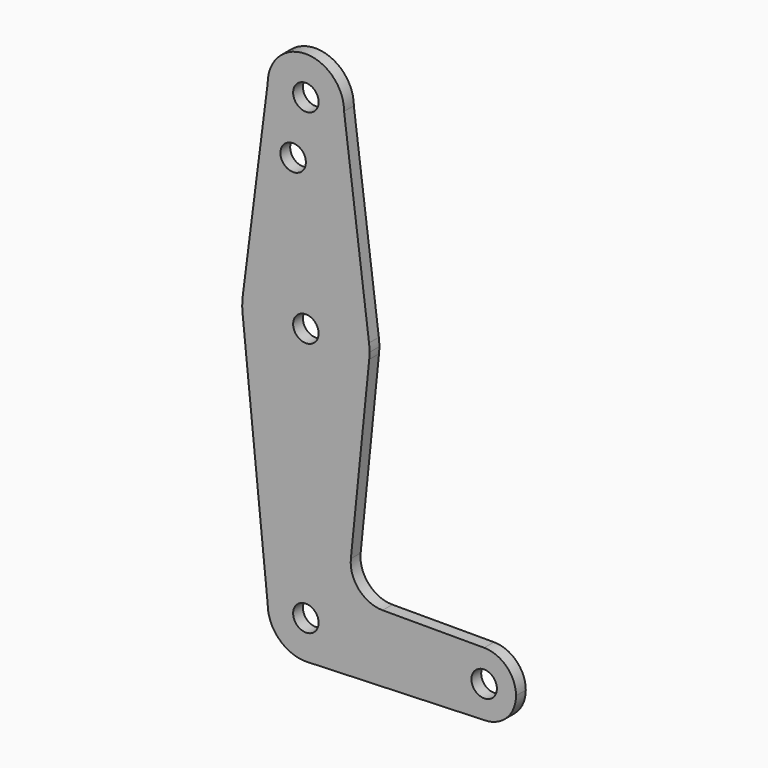
from build123d import *

# Parameters (mm, degrees)
F0_R     = 3.175
F1_DEPTH = 3.048


with BuildPart() as f1:
    # F0 (on Front) → F1 (new body)
    with BuildSketch(Plane.XZ):
        with BuildLine():
            ThreePointArc((0.341271, -9.518884), (6.854788, -6.613434), (9.525, 0))
            ThreePointArc((9.525, 0), (0, 9.525), (-9.525, 0))
            ThreePointArc((-9.525, 0), (-6.613434, -6.854788), (0.341271, -9.518884))
        make_face()
        Circle(F0_R, mode=Mode.SUBTRACT)
        with BuildLine():
            ThreePointArc((-9.525, 0), (0, 9.525), (9.525, 0))
            ThreePointArc((9.525, 0), (6.854788, -6.613434), (0.341271, -9.518884))
            Line((0.341271, -9.518884), (44.45, -7.9375))
            ThreePointArc((44.45, -7.9375), (36.5125, 0), (44.45, 7.9375))
            Line((44.45, 7.9375), (19.124959, 7.9375))
            ThreePointArc((19.124959, 7.9375), (13.226887, 10.556806), (11.215222, 16.688789))
            Line((11.215222, 16.688789), (15.794203, 61.90038))
            ThreePointArc((15.794203, 61.90038), (0, 47.625), (-15.794203, 61.90038))
            Line((-15.794203, 61.90038), (-9.525, 0))
        make_face()
        with BuildLine():
            ThreePointArc((-15.747457, 65.508289), (-15.873668, 63.705667), (-15.794203, 61.90038))
            ThreePointArc((-15.794203, 61.90038), (0, 47.625), (15.794203, 61.90038))
            ThreePointArc((15.794203, 61.90038), (15.854788, 62.699171), (15.875, 63.5))
            ThreePointArc((15.875, 63.5), (15.843082, 64.506168), (15.747457, 65.508289))
            ThreePointArc((15.747457, 65.508289), (0, 79.375), (-15.747457, 65.508289))
        make_face()
        with Locations((0, 63.5)):
            Circle(F0_R, mode=Mode.SUBTRACT)
        with BuildLine():
            ThreePointArc((44.45, 7.9375), (36.5125, 0), (44.45, -7.9375))
            ThreePointArc((44.45, -7.9375), (50.06266, -5.61266), (52.3875, 0))
            ThreePointArc((52.3875, 0), (50.06266, 5.61266), (44.45, 7.9375))
        make_face()
        with Locations((44.45, 0)):
            Circle(F0_R, mode=Mode.SUBTRACT)
        with BuildLine():
            Line((-9.525, 114.3), (-15.747457, 65.508289))
            ThreePointArc((-15.747457, 65.508289), (0, 79.375), (15.747457, 65.508289))
            Line((15.747457, 65.508289), (9.525, 114.3))
            ThreePointArc((9.525, 114.3), (0, 104.775), (-9.525, 114.3))
        make_face()
        with Locations((-3.175, 100.0252)):
            Circle(F0_R, mode=Mode.SUBTRACT)
        with BuildLine():
            ThreePointArc((9.525, 114.3), (0, 123.825), (-9.525, 114.3))
            ThreePointArc((-9.525, 114.3), (0, 104.775), (9.525, 114.3))
        make_face()
        with Locations((0, 114.3)):
            Circle(F0_R, mode=Mode.SUBTRACT)
    extrude(amount=F1_DEPTH)


solid = f1.part
